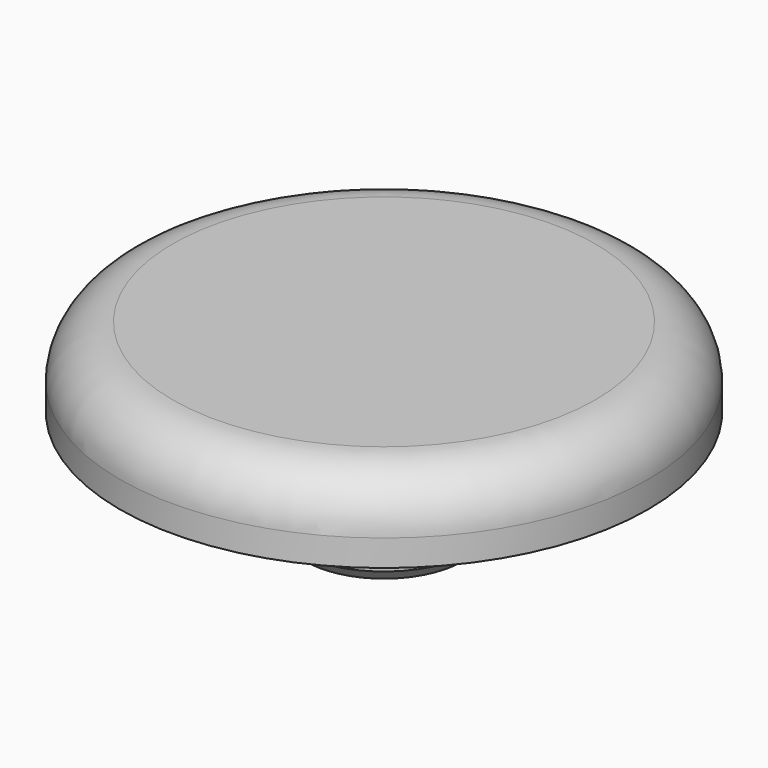
from build123d import *

# Parameters (mm, degrees)
F0_R     = 3.5
F1_DEPTH = 7
F0_R_2   = 4.5
F2_DEPTH = 4
F0_R_3   = 10
F3_DEPTH = 3
F4_R     = 2
F5_SIZE  = 0.5


with BuildPart() as f1:
    # F0 (on Top) → F1 (new body)
    with BuildSketch(Plane.XY):
        Circle(F0_R)
    extrude(amount=-F1_DEPTH)

    # F0 (on Top) → F2 (join)
    with BuildSketch(Plane.XY):
        Circle(F0_R_2)
        Circle(F0_R, mode=Mode.SUBTRACT)
    extrude(amount=-F2_DEPTH)

    # F0 (on Top) → F3 (join)
    with BuildSketch(Plane.XY):
        Circle(F0_R_3)
        Circle(F0_R_2, mode=Mode.SUBTRACT)
    extrude(amount=-F3_DEPTH)

    # F4
    f4_edges = [f1.edges().sort_by_distance(p)[0] for p in [
        (-10, 0, 0),
    ]]
    fillet(f4_edges, radius=F4_R)

    # F5
    f5_edges = [f1.edges().sort_by_distance(p)[0] for p in [
        (-3.5, 0, -7),
    ]]
    chamfer(f5_edges, length=F5_SIZE)


solid = f1.part
